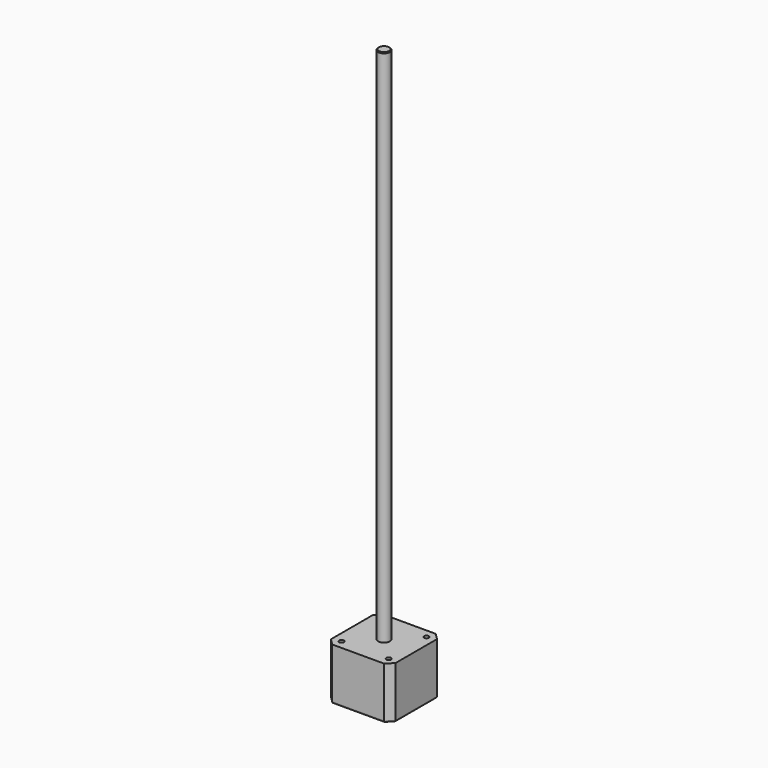
from build123d import *

# Parameters (mm, degrees)
SKETCH_W        = 41
SKETCH_H        = 41
PAD_DEPTH       = 33
CHAMFER_SIZE    = 4
FILLET_R        = 1
SKETCH001_R     = 1.5
POCKET_DEPTH    = 5
SKETCH002_R     = 3.75
PAD001_DEPTH    = 330
CHAMFER001_SIZE = 0.5


with BuildPart() as part:
    # Sketch → Pad (new body)
    with BuildSketch(Plane.XY):
        with Locations((20.5, 20.5)):
            Rectangle(SKETCH_W, SKETCH_H)
    extrude(amount=PAD_DEPTH)

    # Chamfer
    chamfer_edges = [part.edges().sort_by_distance(p)[0] for p in [
        (41, 0, 16.5),
        (0, 0, 16.5),
        (0, 41, 16.5),
        (41, 41, 16.5),
    ]]
    chamfer(chamfer_edges, length=CHAMFER_SIZE)

    # Fillet
    fillet_edges = [part.edges().sort_by_distance(p)[0] for p in [
        (20.5, 0, 0),
        (39, 2, 0),
        (41, 20.5, 0),
        (39, 39, 0),
        (20.5, 41, 0),
        (2, 39, 0),
        (0, 20.5, 0),
        (2, 2, 0),
    ]]
    fillet(fillet_edges, radius=FILLET_R)

    # Sketch001 (on Face4 of Fillet) → Pocket (cut)
    with BuildSketch(Plane.XY.offset(33)):
        with Locations((35.5, 35.5)):
            Circle(SKETCH001_R)
        with Locations((5.5, 35.5)):
            Circle(SKETCH001_R)
        with Locations((5.5, 5.5)):
            Circle(SKETCH001_R)
        with Locations((35.5, 5.5)):
            Circle(SKETCH001_R)
    extrude(amount=-POCKET_DEPTH, mode=Mode.SUBTRACT)

    # Sketch002 (on Face4 of Pocket) → Pad001 (join)
    with BuildSketch(Plane.XY.offset(33)):
        with Locations((20.5, 20.5)):
            Circle(SKETCH002_R)
    extrude(amount=PAD001_DEPTH)

    # Chamfer001
    chamfer001_edges = [part.edges().sort_by_distance(p)[0] for p in [
        (16.75, 20.5, 363),
    ]]
    chamfer(chamfer001_edges, length=CHAMFER001_SIZE)


solid = part.part
